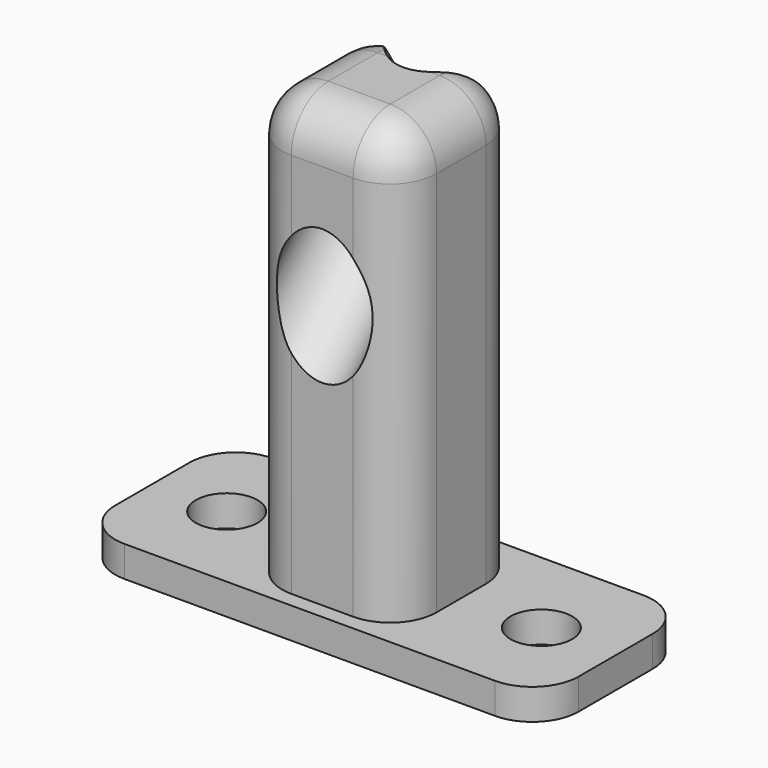
from build123d import *

# Parameters (mm, degrees)
F0_W     = 30
F0_H     = 12
F0_R     = 2
F0_W_2   = 10
F0_H_2   = 10
F1_DEPTH = 2
F2_DEPTH = 30
F3_R     = 3
F5_R     = 3.1
F6_DEPTH = 100


with BuildPart() as f1:
    # F0 (on Top) → F1 (new body)
    with BuildSketch(Plane.XY):
        Rectangle(F0_W, F0_H)
        with Locations((-10.187883, 0)):
            Circle(F0_R, mode=Mode.SUBTRACT)
        Rectangle(F0_W_2, F0_H_2, mode=Mode.SUBTRACT)
        with Locations((10.187883, 0)):
            Circle(F0_R, mode=Mode.SUBTRACT)
        Rectangle(F0_W_2, F0_H_2)
    extrude(amount=F1_DEPTH)

    # F0 (on Top) → F2 (join)
    with BuildSketch(Plane.XY):
        Rectangle(F0_W_2, F0_H_2)
    extrude(amount=F2_DEPTH)

    # F3
    f3_edges = [f1.edges().sort_by_distance(p)[0] for p in [
        (-15, -6, 1),
        (-5, -5, 16),
        (5, -5, 16),
        (5, 5, 16),
        (15, -6, 1),
        (15, 6, 1),
        (-5, 5, 16),
        (-15, 6, 1),
        (5, 0, 30),
        (0, 5, 30),
        (-5, 0, 30),
        (0, -5, 30),
    ]]
    fillet(f3_edges, radius=F3_R)

    # F5 (on face) → F6 (cut)
    with BuildSketch(Plane(origin=(0, -3, -3), x_dir=(1, 0, 0), z_dir=(0, -0.707107, -0.707107))):
        with Locations((0, 17.014893)):
            Circle(F5_R)
    extrude(amount=-F6_DEPTH, mode=Mode.SUBTRACT)


solid = f1.part
